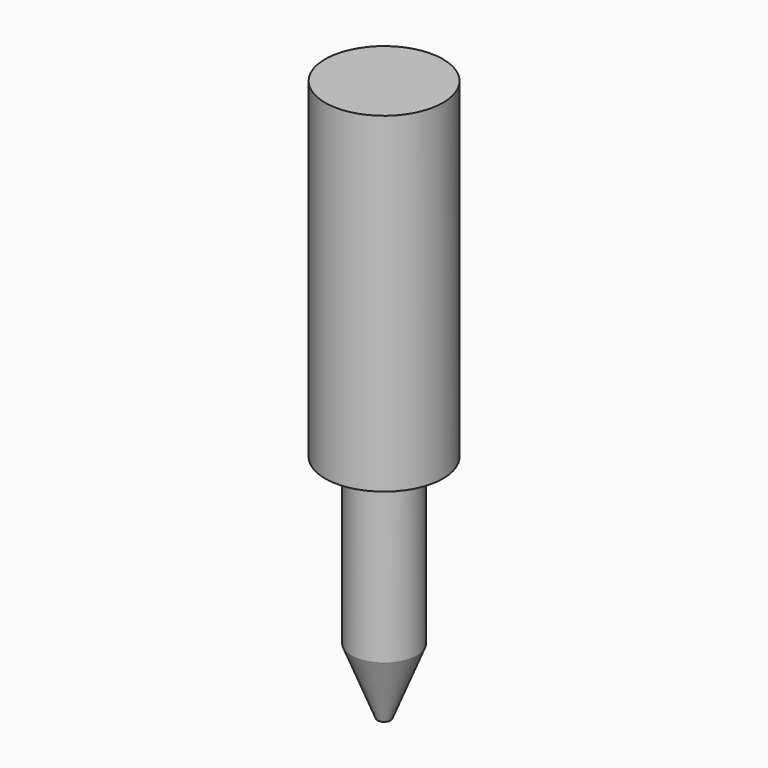
from build123d import *

# Parameters (mm, degrees)
CYLINDER003_R     = 0.5
CYLINDER003_DEPTH = 2.51
CYLINDER004_R     = 0.9
CYLINDER004_DEPTH = 5.05


with BuildPart() as cylinder003:
    # Cylinder003 → Cylinder003 (new body)
    with BuildSketch(Plane(origin=(2.54, 0, -2.51), x_dir=(1, 0, 0), z_dir=(0, 0, 1))):
        Circle(CYLINDER003_R)
    extrude(amount=CYLINDER003_DEPTH)


with BuildPart() as cone001:
    # Cone001 → Cone001 (revolve)
    with BuildSketch(Plane(origin=(2.54, 0, -3.51), x_dir=(1, 0, 0), z_dir=(0, -1, 0))):
        Polygon((0, 0), (0.1, 0), (0.5, 1), (0, 1), align=None)
    revolve(axis=Axis((2.54, 0, -3.51), (0, 0, 1)))


with BuildPart() as fusion001:
    # Cylinder004 → Cylinder004 (new body)
    with BuildSketch(Plane(origin=(2.54, 0, 0), x_dir=(1, 0, 0), z_dir=(0, 0, 1))):
        Circle(CYLINDER004_R)
    extrude(amount=CYLINDER004_DEPTH)

    # Fusion001: union Cylinder003, Cone001
    add(cylinder003.part)
    add(cone001.part)


with BuildPart() as fusion001_1:
    # Fusion001 placement: moved
    add(fusion001.part.moved(Location((0, 21.59, 0))))


solid = fusion001_1.part
